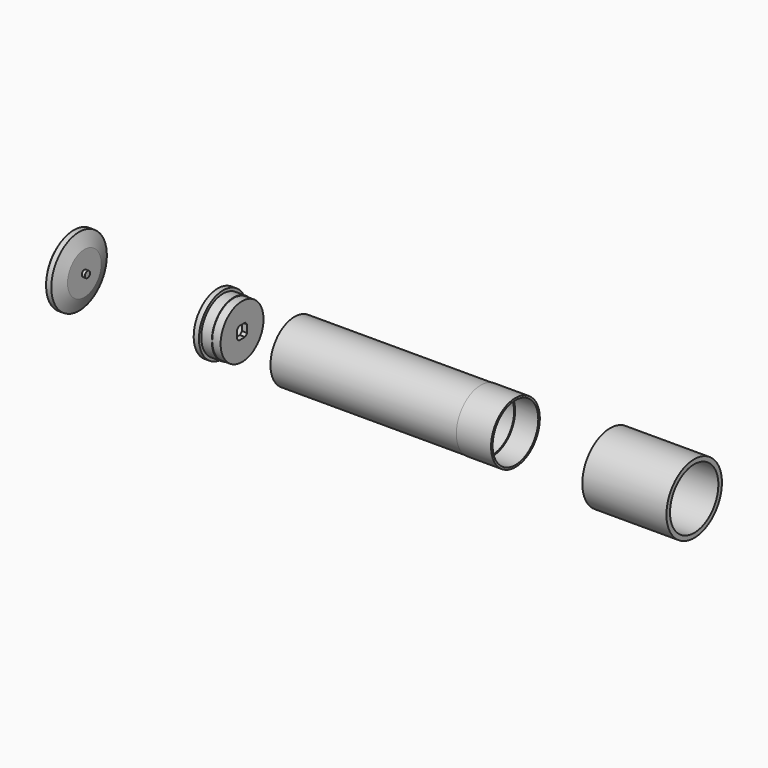
from build123d import *

# Parameters (mm, degrees)
F2_R     = 27.15
F2_R_2   = 25.9
F3_DEPTH = 22
F7_DEPTH = 5
F8_W     = 80
F8_H     = 4.25
F10_W    = 3
F10_H    = 3


with BuildPart() as f1:
    # F0 (on Front) → F1 (revolve)
    with BuildSketch(Plane.XZ):
        Polygon((177, 28.75), (0, 28.75), (0, 25.9), (210, 25.9), (210, 29), (177, 29), align=None)
    revolve(axis=Axis((105, 0, 0), (1, 0, 0)))

    # F2 (on face) → F3 (cut)
    with BuildSketch(Plane.YZ.offset(210)):
        Circle(F2_R)
        Circle(F2_R_2, mode=Mode.SUBTRACT)
    extrude(amount=-F3_DEPTH, mode=Mode.SUBTRACT)


with BuildPart() as f5:
    # F4 (on Front) → F5 (revolve)
    with BuildSketch(Plane.XZ):
        Polygon((-55, 0), (-50, 0), (-50, 25.5), (-58, 25.5), (-58, 26), (-68, 26), (-68, 28.75), (-73, 28.75), (-73, 23.5), (-55, 23.5), align=None)
    revolve(axis=Axis((-61.5, 0, 0), (-1, 0, 0)))

    # F6 (on face) → F7 (cut)
    with BuildSketch(Plane(origin=(-55, 0, 0), x_dir=(0, -1, 0), z_dir=(-1, 0, 0))):
        with BuildLine():
            ThreePointArc((6, 3.6055512755), (4.9497474683, 4.9497474683), (3.6055512755, 6))
            Line((3.6055512755, 6), (-3.6055512755, 6))
            ThreePointArc((-3.6055512755, 6), (-4.9497474683, 4.9497474683), (-6, 3.6055512755))
            Line((-6, 3.6055512755), (-6, -3.6055512755))
            ThreePointArc((-6, -3.6055512755), (-4.9497474683, -4.9497474683), (-3.6055512755, -6))
            Line((-3.6055512755, -6), (3.6055512755, -6))
            ThreePointArc((3.6055512755, -6), (4.9497474683, -4.9497474683), (6, -3.6055512755))
            Line((6, -3.6055512755), (6, 3.6055512755))
        make_face()
    extrude(amount=-F7_DEPTH, mode=Mode.SUBTRACT)


with BuildPart() as f9:
    # F8 (on Front) → F9 (revolve)
    with BuildSketch(Plane.XZ):
        with Locations((340, 30.875)):
            Rectangle(F8_W, F8_H)
    revolve(axis=Axis((150, 0, 0), (1, 0, 0)))


with BuildPart() as f11:
    # F10 (on Front) → F11 (revolve)
    with BuildSketch(Plane.XZ):
        Polygon((-210, 0), (-200, 0), (-200, 3), (-200, 20), (-205, 33), (-210, 33), (-210, 28.75), (-210, 25.75), align=None)
        with Locations((-198.5, 1.5)):
            Rectangle(F10_W, F10_H)
        with Locations((-211.5, 27.25)):
            Rectangle(F10_W, F10_H)
    revolve(axis=Axis((-100, 0, 0), (-1, 0, 0)))


solid = Compound([f1.part, f5.part, f9.part, f11.part])
